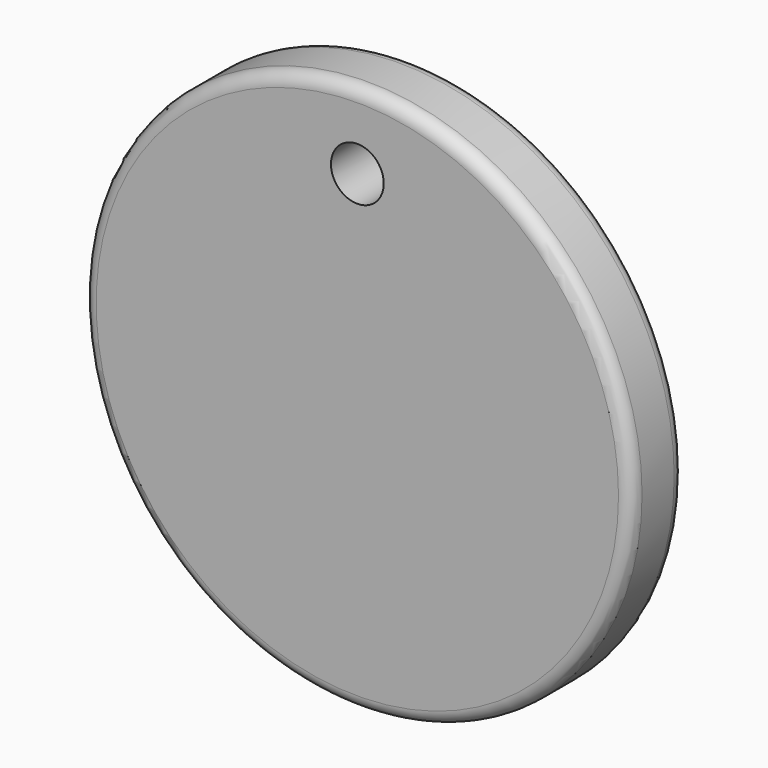
from build123d import *

# Parameters (mm, degrees)
F0_R     = 16.4973
F1_DEPTH = 3.9878
F2_R     = 0.7874
F3_R     = 1.5875
F4_DEPTH = 25.4


with BuildPart() as f1:
    # F0 (on Front) → F1 (new body)
    with BuildSketch(Plane.XZ):
        with Locations((-24.256999, 23.241002)):
            Circle(F0_R)
    extrude(amount=F1_DEPTH)

    # F2
    f2_edges = [f1.edges().sort_by_distance(p)[0] for p in [
        (-40.754299, 0, 23.241002),
        (-40.754299, -3.9878, 23.241002),
    ]]
    fillet(f2_edges, radius=F2_R)

    # F3 (on face) → F4 (cut)
    with BuildSketch(Plane.XZ.offset(3.9878)):
        with Locations((-24.257001, 35.179)):
            Circle(F3_R)
    extrude(amount=-F4_DEPTH, mode=Mode.SUBTRACT)


solid = f1.part
